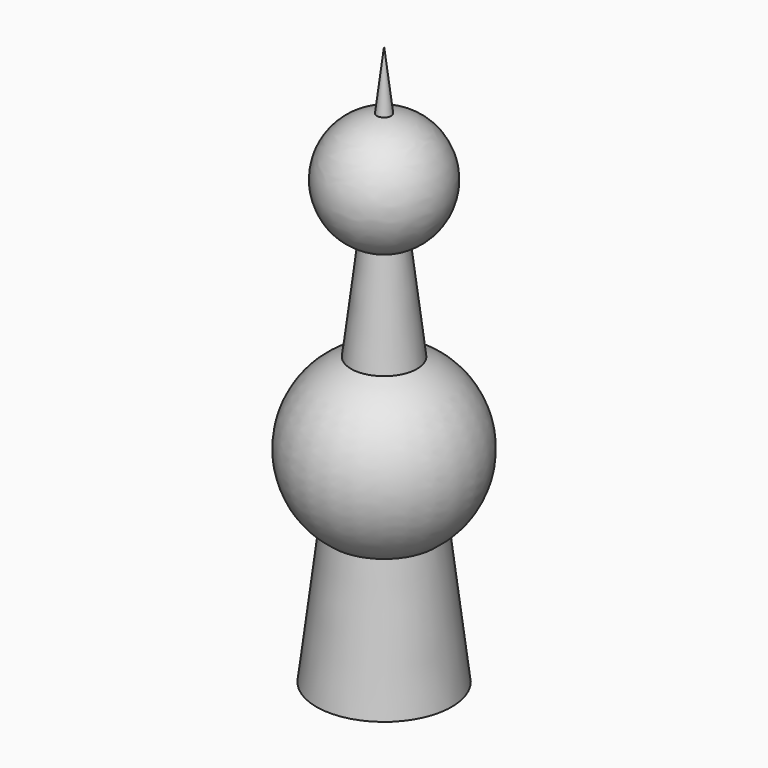
from build123d import *


with BuildPart() as f1:
    # F0 (on Front) → F1 (revolve)
    with BuildSketch(Plane.XZ):
        with BuildLine():
            Line((-15.5925, 0), (0, 0))
            Line((0, 0), (0, 74.812502))
            Line((0, 74.812502), (0, 128.918201))
            Line((0, 128.918201), (-1.648707, 115.286753))
            ThreePointArc((-1.648707, 115.286753), (-13.424453, 103.489022), (-4.800962, 89.224029))
            Line((-4.800962, 89.224029), (-7.616112, 65.94847))
            ThreePointArc((-7.616112, 65.94847), (-19.96637, 49.749337), (-11.834272, 31.072888))
            Line((-11.834272, 31.072888), (-15.5925, 0))
        make_face()
    revolve(axis=Axis((0, 0, 37.406251), (0, 0, -1)))


solid = f1.part
